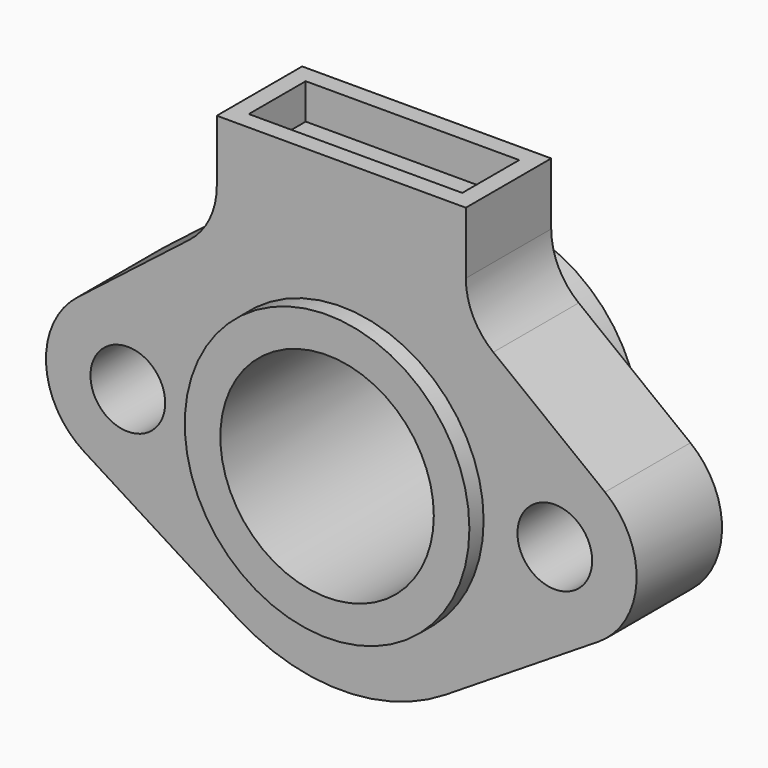
from build123d import *

# Parameters (mm, degrees)
SKETCH_R        = 40
SKETCH_R_2      = 10.5
PAD_DEPTH       = 30
SKETCH001_R     = 5
POCKET_DEPTH    = 75.804681
SKETCH002_W     = 60
SKETCH002_H     = 20
POCKET001_DEPTH = 10
SKETCH003_R     = 40
SKETCH003_R_2   = 30
PAD001_DEPTH    = 60


with BuildPart() as part:
    # Sketch → Pad (new body)
    with BuildSketch(Plane.XZ):
        with BuildLine():
            ThreePointArc((-29.333333, -46.524784), (0, -55), (29.333333, -46.524784))
            Line((29.333333, -46.524784), (72.266667, -19.455819))
            ThreePointArc((72.266667, -19.455819), (82.97229, -1.128676), (74.114792, 18.159644))
            Line((74.114792, 18.159644), (42.726268, 42.556734))
            ThreePointArc((35, 58.347728), (37.035109, 49.557809), (42.726268, 42.556734))
            Line((35, 75.803681), (35, 58.347728))
            Line((-35, 75.803681), (35, 75.803681))
            Line((-35, 58.347728), (-35, 75.803681))
            ThreePointArc((-42.726268, 42.556734), (-37.035109, 49.557809), (-35, 58.347728))
            Line((-74.114792, 18.159644), (-42.726268, 42.556734))
            ThreePointArc((-74.114792, 18.159644), (-82.97229, -1.128676), (-72.266667, -19.455819))
            Line((-72.266667, -19.455819), (-29.333333, -46.524784))
        make_face()
        Circle(SKETCH_R, mode=Mode.SUBTRACT)
        with Locations((-60, 0)):
            Circle(SKETCH_R_2, mode=Mode.SUBTRACT)
        with Locations((60, 0)):
            Circle(SKETCH_R_2, mode=Mode.SUBTRACT)
    extrude(amount=-PAD_DEPTH)

    # Sketch001 → Pocket (cut, through all)
    with BuildSketch(Plane.XY):
        with Locations((0, 15)):
            Circle(SKETCH001_R)
    extrude(amount=POCKET_DEPTH, mode=Mode.SUBTRACT)

    # Sketch002 (on Face13 of Pocket) → Pocket001 (cut)
    with BuildSketch(Plane(origin=(0, 0, 75.803681), x_dir=(-1, 0, 0), z_dir=(0, 0, 1))):
        with Locations((0, -15)):
            Rectangle(SKETCH002_W, SKETCH002_H)
    extrude(amount=-POCKET001_DEPTH, mode=Mode.SUBTRACT)

    # Sketch003 (on DatumPlane) → Pad001 (join)
    with BuildSketch(Plane.XZ.offset(5)):
        Circle(SKETCH003_R)
        Circle(SKETCH003_R_2, mode=Mode.SUBTRACT)
    extrude(amount=-PAD001_DEPTH)


solid = part.part
